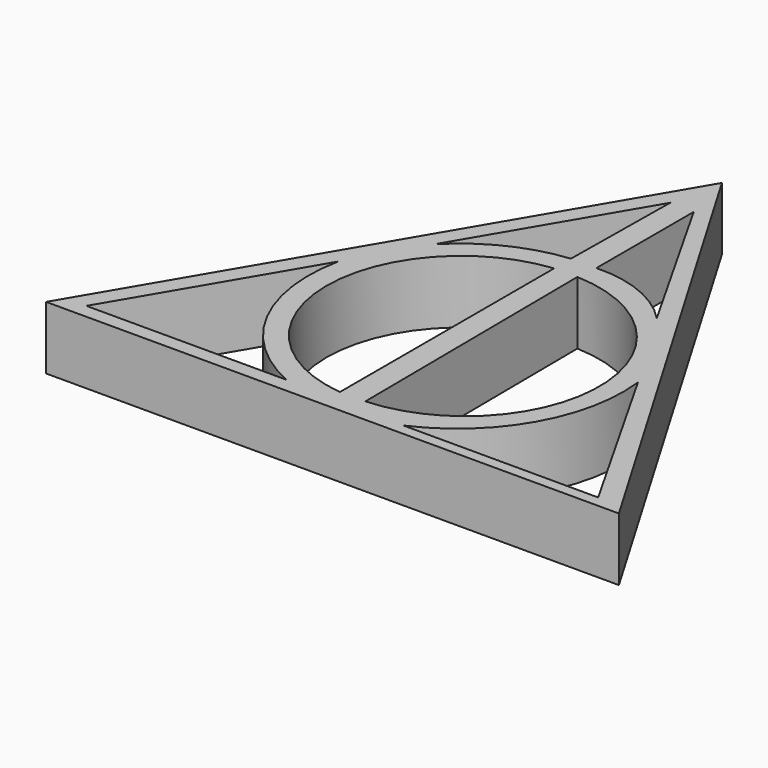
from build123d import *

# Parameters (mm, degrees)
F1_DEPTH = 10


with BuildPart() as f1:
    # F0 (on Top) → F1 (new body)
    with BuildSketch(Plane.XY):
        Polygon((45.575246, -31.056514), (0.153215, 46.146121), (-45.268816, -31.056514), align=None)
        with BuildLine():
            Line((-8.948487, -28.775526), (-40.706843, -28.775526))
            Line((-40.706843, -28.775526), (-23.776814, 0))
            ThreePointArc((-23.776814, 0), (-21.459524, -17.014235), (-8.948487, -28.775526))
        make_face(mode=Mode.SUBTRACT)
        with BuildLine():
            ThreePointArc((-1.754605, -27.196383), (-20.855814, -5.965658), (-1.754605, 15.265066))
            Line((-1.754605, 15.265066), (-1.754605, -27.196383))
        make_face(mode=Mode.SUBTRACT)
        with BuildLine():
            Line((40.882304, -29.301908), (10.001249, -29.301908))
            ThreePointArc((10.001249, -29.301908), (22.191847, -18.241714), (25.441779, -2.105526))
            Line((25.441779, -2.105526), (40.882304, -29.301908))
        make_face(mode=Mode.SUBTRACT)
        with BuildLine():
            ThreePointArc((1.930066, 15.265066), (22.403639, -5.797906), (2.280987, -27.196383))
            Line((2.280987, -27.196383), (1.930066, 15.265066))
        make_face(mode=Mode.SUBTRACT)
        with BuildLine():
            Line((-1.513758, 38.00546), (-1.754605, 18.598817))
            ThreePointArc((-1.754605, 18.598817), (-10.230294, 16.208389), (-17.370593, 11.054013))
            Line((-17.370593, 11.054013), (-1.513758, 38.00546))
        make_face(mode=Mode.SUBTRACT)
        with BuildLine():
            Line((2.280987, 37.899476), (16.493291, 12.808618))
            ThreePointArc((16.493291, 12.808618), (10.004746, 17.219663), (2.280987, 18.598817))
            Line((2.280987, 18.598817), (2.280987, 37.899476))
        make_face(mode=Mode.SUBTRACT)
    extrude(amount=F1_DEPTH)


solid = f1.part
